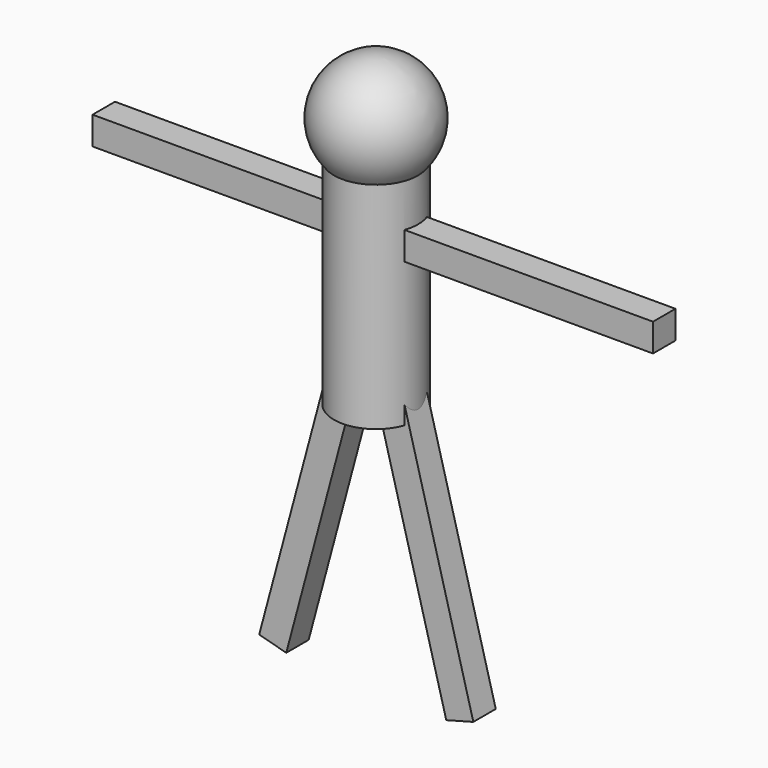
from build123d import *

# Parameters (mm, degrees)
BOX002_W               = 100
BOX002_H               = 100
BOX002_DEPTH           = 1000
BOX002_PLACEMENT_ANGLE = 165
BOX001_W               = 100
BOX001_H               = 100
BOX001_DEPTH           = 1000
BOX001_PLACEMENT_ANGLE = 195
CYLINDER004_R          = 150
CYLINDER004_DEPTH      = 900
BOX003_W               = 100
BOX003_H               = 100
BOX003_DEPTH           = 2000


with BuildPart() as cube002:
    # Box002 → Box002 (new body)
    with BuildSketch(Plane.XY):
        with Locations((50, 50)):
            Rectangle(BOX002_W, BOX002_H)
    extrude(amount=BOX002_DEPTH)


with BuildPart() as cube002_1:
    # Box002 placement: moved
    add(cube002.part.moved(Location((-21.759997, -50, 1014.222118))).rotate(Axis((-21.759997, -50, 1014.222118), (0, -1, 0)), BOX002_PLACEMENT_ANGLE))


with BuildPart() as cube001:
    # Box001 → Box001 (new body)
    with BuildSketch(Plane.XY):
        with Locations((50, 50)):
            Rectangle(BOX001_W, BOX001_H)
    extrude(amount=BOX001_DEPTH)


with BuildPart() as cube001_1:
    # Box001 placement: moved
    add(cube001.part.moved(Location((128.240003, -50, 1014.222118))).rotate(Axis((128.240003, -50, 1014.222118), (0, -1, 0)), BOX001_PLACEMENT_ANGLE))


with BuildPart() as sphere003:
    # Sphere003 → Sphere003 (revolve)
    with BuildSketch(Plane(origin=(0, 0, 1800), x_dir=(1, 0, 0), z_dir=(0, -1, 0))):
        with BuildLine():
            ThreePointArc((0, -200), (200, 0), (0, 200))
            Line((0, 200), (0, -200))
        make_face()
    revolve(axis=Axis((0, 0, 1800), (0, 0, 1)))


with BuildPart() as cylinder004:
    # Cylinder004 → Cylinder004 (new body)
    with BuildSketch(Plane(origin=(0, 0, 1800), x_dir=(1, 0, 0), z_dir=(0, 0, -1))):
        Circle(CYLINDER004_R)
    extrude(amount=CYLINDER004_DEPTH)


with BuildPart() as fusion001:
    # Box003 → Box003 (new body)
    with BuildSketch(Plane(origin=(1028.240003, -50, 1414.222118), x_dir=(0, 0, 1), z_dir=(-1, 0, 0))):
        with Locations((50, 50)):
            Rectangle(BOX003_W, BOX003_H)
    extrude(amount=BOX003_DEPTH)

    # Fusion001: union Cube002, Cube001, Sphere003, Cylinder004
    add(cube002_1.part)
    add(cube001_1.part)
    add(sphere003.part)
    add(cylinder004.part)


with BuildPart() as fusion001_1:
    # Fusion001 placement: moved
    add(fusion001.part.moved(Location((0, 18950, 0))))


solid = fusion001_1.part
